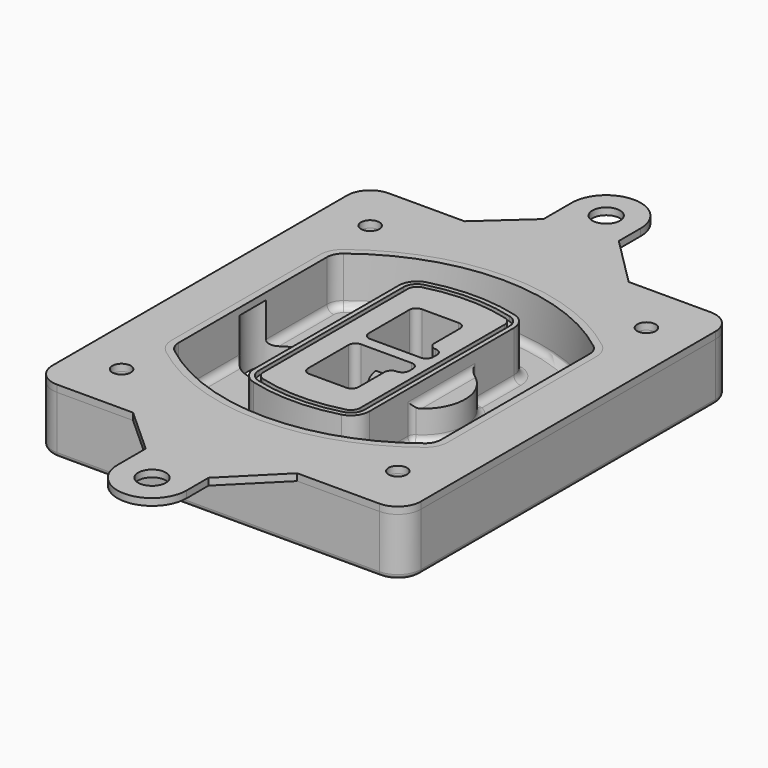
from build123d import *

# Parameters (mm, degrees)
F0_R      = 4
F1_DEPTH  = 25
F2_DEPTH  = 3
F3_DEPTH  = 18
F5_DEPTH  = 21
F6_DEPTH  = 2
F8_DEPTH  = 20
F9_DEPTH  = 16
F10_DEPTH = 25
F7_R      = 6
F7_R_2    = 4
F11_DEPTH = 6
F13_DEPTH = 9
F14_R     = 3
F15_R     = 2
F16_R     = 6
F16_R_2   = 4
F17_DEPTH = 3


with BuildPart() as f1:
    # F0 (on Top) → F1 (new body)
    with BuildSketch(Plane.XY):
        with BuildLine():
            ThreePointArc((-80, -80), (-77.0710678119, -87.0710678119), (-70, -90))
            Line((-70, -90), (70, -90))
            ThreePointArc((70, -90), (77.0710678119, -87.0710678119), (80, -80))
            Line((80, -80), (80, 80))
            ThreePointArc((80, 80), (77.0710678119, 87.0710678119), (70, 90))
            Line((70, 90), (-70, 90))
            ThreePointArc((-70, 90), (-77.0710678119, 87.0710678119), (-80, 80))
            Line((-80, 80), (-80, -80))
        make_face()
        with Locations((-60, -67.5)):
            Circle(F0_R, mode=Mode.SUBTRACT)
        with Locations((60, -67.5)):
            Circle(F0_R, mode=Mode.SUBTRACT)
        with Locations((-60, 67.5)):
            Circle(F0_R, mode=Mode.SUBTRACT)
        with BuildLine():
            ThreePointArc((-64, 40.2934422872), (-62.5820384798, 46.4328484224), (-58.6153846154, 51.3286200352))
            ThreePointArc((-58.6153846154, 51.3286200352), (0, 71.5), (58.6153846154, 51.3286200352))
            ThreePointArc((58.6153846154, 51.3286200352), (62.5820384798, 46.4328484224), (64, 40.2934422872))
            Line((64, 40.2934422872), (64, -40.2934422872))
            ThreePointArc((64, -40.2934422872), (62.5820384798, -46.4328484224), (58.6153846154, -51.3286200352))
            ThreePointArc((58.6153846154, -51.3286200352), (0, -71.5), (-58.6153846154, -51.3286200352))
            ThreePointArc((-58.6153846154, -51.3286200352), (-62.5820384798, -46.4328484224), (-64, -40.2934422872))
            Line((-64, -40.2934422872), (-64, 40.2934422872))
        make_face(mode=Mode.SUBTRACT)
        with Locations((60, 67.5)):
            Circle(F0_R, mode=Mode.SUBTRACT)
        with BuildLine():
            ThreePointArc((58.6153846154, 51.3286200352), (0, 71.5), (-58.6153846154, 51.3286200352))
            ThreePointArc((-58.6153846154, 51.3286200352), (-62.5820384798, 46.4328484224), (-64, 40.2934422872))
            Line((-64, 40.2934422872), (-64, -40.2934422872))
            ThreePointArc((-64, -40.2934422872), (-62.5820384798, -46.4328484224), (-58.6153846154, -51.3286200352))
            ThreePointArc((-58.6153846154, -51.3286200352), (0, -71.5), (58.6153846154, -51.3286200352))
            ThreePointArc((58.6153846154, -51.3286200352), (62.5820384798, -46.4328484224), (64, -40.2934422872))
            Line((64, -40.2934422872), (64, 40.2934422872))
            ThreePointArc((64, 40.2934422872), (62.5820384798, 46.4328484224), (58.6153846154, 51.3286200352))
        make_face()
        with BuildLine():
            Line((-60, -40.2934422872), (-60, 40.2934422872))
            ThreePointArc((-60, 40.2934422872), (-58.9871703427, 44.6787323838), (-56.1538461538, 48.1757121072))
            ThreePointArc((-56.1538461538, 48.1757121072), (0, 67.5), (56.1538461538, 48.1757121072))
            ThreePointArc((56.1538461538, 48.1757121072), (58.9871703427, 44.6787323838), (60, 40.2934422872))
            Line((60, 40.2934422872), (60, -40.2934422872))
            ThreePointArc((60, -40.2934422872), (58.9871703427, -44.6787323838), (56.1538461538, -48.1757121072))
            ThreePointArc((56.1538461538, -48.1757121072), (0, -67.5), (-56.1538461538, -48.1757121072))
            ThreePointArc((-56.1538461538, -48.1757121072), (-58.9871703427, -44.6787323838), (-60, -40.2934422872))
        make_face(mode=Mode.SUBTRACT)
        with BuildLine():
            ThreePointArc((-56.1538461538, 48.1757121072), (-58.9871703427, 44.6787323838), (-60, 40.2934422872))
            Line((-60, 40.2934422872), (-60, -40.2934422872))
            ThreePointArc((-60, -40.2934422872), (-58.9871703427, -44.6787323838), (-56.1538461538, -48.1757121072))
            ThreePointArc((-56.1538461538, -48.1757121072), (0, -67.5), (56.1538461538, -48.1757121072))
            ThreePointArc((56.1538461538, -48.1757121072), (58.9871703427, -44.6787323838), (60, -40.2934422872))
            Line((60, -40.2934422872), (60, 40.2934422872))
            ThreePointArc((60, 40.2934422872), (58.9871703427, 44.6787323838), (56.1538461538, 48.1757121072))
            ThreePointArc((56.1538461538, 48.1757121072), (0, 67.5), (-56.1538461538, 48.1757121072))
        make_face()
        with BuildLine():
            ThreePointArc((54.3076923077, 45.8110311612), (56.2910192399, 43.3631453548), (57, 40.2934422872))
            Line((57, 40.2934422872), (57, -40.2934422872))
            ThreePointArc((57, -40.2934422872), (56.2910192399, -43.3631453548), (54.3076923077, -45.8110311612))
            ThreePointArc((54.3076923077, -45.8110311612), (0, -64.5), (-54.3076923077, -45.8110311612))
            ThreePointArc((-54.3076923077, -45.8110311612), (-56.2910192399, -43.3631453548), (-57, -40.2934422872))
            Line((-57, -40.2934422872), (-57, 40.2934422872))
            ThreePointArc((-57, 40.2934422872), (-56.2910192399, 43.3631453548), (-54.3076923077, 45.8110311612))
            ThreePointArc((-54.3076923077, 45.8110311612), (0, 64.5), (54.3076923077, 45.8110311612))
        make_face(mode=Mode.SUBTRACT)
        with BuildLine():
            Line((57, -40.2934422872), (57, 40.2934422872))
            ThreePointArc((57, 40.2934422872), (56.2910192399, 43.3631453548), (54.3076923077, 45.8110311612))
            ThreePointArc((54.3076923077, 45.8110311612), (0, 64.5), (-54.3076923077, 45.8110311612))
            ThreePointArc((-54.3076923077, 45.8110311612), (-56.2910192399, 43.3631453548), (-57, 40.2934422872))
            Line((-57, 40.2934422872), (-57, -40.2934422872))
            ThreePointArc((-57, -40.2934422872), (-56.2910192399, -43.3631453548), (-54.3076923077, -45.8110311612))
            ThreePointArc((-54.3076923077, -45.8110311612), (0, -64.5), (54.3076923077, -45.8110311612))
            ThreePointArc((54.3076923077, -45.8110311612), (56.2910192399, -43.3631453548), (57, -40.2934422872))
        make_face()
    extrude(amount=-F1_DEPTH)

    # F0 (on Top) → F2 (join)
    with BuildSketch(Plane.XY):
        with BuildLine():
            ThreePointArc((-56.1538461538, 48.1757121072), (-58.9871703427, 44.6787323838), (-60, 40.2934422872))
            Line((-60, 40.2934422872), (-60, -40.2934422872))
            ThreePointArc((-60, -40.2934422872), (-58.9871703427, -44.6787323838), (-56.1538461538, -48.1757121072))
            ThreePointArc((-56.1538461538, -48.1757121072), (0, -67.5), (56.1538461538, -48.1757121072))
            ThreePointArc((56.1538461538, -48.1757121072), (58.9871703427, -44.6787323838), (60, -40.2934422872))
            Line((60, -40.2934422872), (60, 40.2934422872))
            ThreePointArc((60, 40.2934422872), (58.9871703427, 44.6787323838), (56.1538461538, 48.1757121072))
            ThreePointArc((56.1538461538, 48.1757121072), (0, 67.5), (-56.1538461538, 48.1757121072))
        make_face()
        with BuildLine():
            ThreePointArc((54.3076923077, 45.8110311612), (56.2910192399, 43.3631453548), (57, 40.2934422872))
            Line((57, 40.2934422872), (57, -40.2934422872))
            ThreePointArc((57, -40.2934422872), (56.2910192399, -43.3631453548), (54.3076923077, -45.8110311612))
            ThreePointArc((54.3076923077, -45.8110311612), (0, -64.5), (-54.3076923077, -45.8110311612))
            ThreePointArc((-54.3076923077, -45.8110311612), (-56.2910192399, -43.3631453548), (-57, -40.2934422872))
            Line((-57, -40.2934422872), (-57, 40.2934422872))
            ThreePointArc((-57, 40.2934422872), (-56.2910192399, 43.3631453548), (-54.3076923077, 45.8110311612))
            ThreePointArc((-54.3076923077, 45.8110311612), (0, 64.5), (54.3076923077, 45.8110311612))
        make_face(mode=Mode.SUBTRACT)
    extrude(amount=F2_DEPTH)

    # F0 (on Top) → F3 (cut)
    with BuildSketch(Plane.XY):
        with BuildLine():
            Line((57, -40.2934422872), (57, 40.2934422872))
            ThreePointArc((57, 40.2934422872), (56.2910192399, 43.3631453548), (54.3076923077, 45.8110311612))
            ThreePointArc((54.3076923077, 45.8110311612), (0, 64.5), (-54.3076923077, 45.8110311612))
            ThreePointArc((-54.3076923077, 45.8110311612), (-56.2910192399, 43.3631453548), (-57, 40.2934422872))
            Line((-57, 40.2934422872), (-57, -40.2934422872))
            ThreePointArc((-57, -40.2934422872), (-56.2910192399, -43.3631453548), (-54.3076923077, -45.8110311612))
            ThreePointArc((-54.3076923077, -45.8110311612), (0, -64.5), (54.3076923077, -45.8110311612))
            ThreePointArc((54.3076923077, -45.8110311612), (56.2910192399, -43.3631453548), (57, -40.2934422872))
        make_face()
    extrude(amount=-F3_DEPTH, mode=Mode.SUBTRACT)

    # F4 (on face) → F5 (join, through all)
    with BuildSketch(Plane.XY.offset(3)):
        with BuildLine():
            ThreePointArc((-25, -39.2465276821), (-23.3511545998, -44.1109737193), (-19.0842911877, -46.9702398883))
            ThreePointArc((-19.0842911877, -46.9702398883), (0, -49.5), (19.0842911877, -46.9702398883))
            ThreePointArc((19.0842911877, -46.9702398883), (23.3511545998, -44.1109737193), (25, -39.2465276821))
            Line((25, -39.2465276821), (25, 39.2465276821))
            ThreePointArc((25, 39.2465276821), (23.3511545998, 44.1109737193), (19.0842911877, 46.9702398883))
            ThreePointArc((19.0842911877, 46.9702398883), (0, 49.5), (-19.0842911877, 46.9702398883))
            ThreePointArc((-19.0842911877, 46.9702398883), (-23.3511545998, 44.1109737193), (-25, 39.2465276821))
            Line((-25, 39.2465276821), (-25, -39.2465276821))
        make_face()
        with BuildLine():
            ThreePointArc((18.5632183908, 45.0393118368), (21.7633659499, 42.89486221), (23, 39.2465276821))
            Line((23, 39.2465276821), (23, -39.2465276821))
            ThreePointArc((23, -39.2465276821), (21.7633659499, -42.89486221), (18.5632183908, -45.0393118368))
            ThreePointArc((18.5632183908, -45.0393118368), (0, -47.5), (-18.5632183908, -45.0393118368))
            ThreePointArc((-18.5632183908, -45.0393118368), (-21.7633659499, -42.89486221), (-23, -39.2465276821))
            Line((-23, -39.2465276821), (-23, 39.2465276821))
            ThreePointArc((-23, 39.2465276821), (-21.7633659499, 42.89486221), (-18.5632183908, 45.0393118368))
            ThreePointArc((-18.5632183908, 45.0393118368), (0, 47.5), (18.5632183908, 45.0393118368))
        make_face(mode=Mode.SUBTRACT)
        with BuildLine():
            Line((23, -39.2465276821), (23, 39.2465276821))
            ThreePointArc((23, 39.2465276821), (21.7633659499, 42.89486221), (18.5632183908, 45.0393118368))
            ThreePointArc((18.5632183908, 45.0393118368), (0, 47.5), (-18.5632183908, 45.0393118368))
            ThreePointArc((-18.5632183908, 45.0393118368), (-21.7633659499, 42.89486221), (-23, 39.2465276821))
            Line((-23, 39.2465276821), (-23, -39.2465276821))
            ThreePointArc((-23, -39.2465276821), (-21.7633659499, -42.89486221), (-18.5632183908, -45.0393118368))
            ThreePointArc((-18.5632183908, -45.0393118368), (0, -47.5), (18.5632183908, -45.0393118368))
            ThreePointArc((18.5632183908, -45.0393118368), (21.7633659499, -42.89486221), (23, -39.2465276821))
        make_face()
        with BuildLine():
            ThreePointArc((18.0421455939, 43.1083837852), (20.1755772999, 41.6787507007), (21, 39.2465276821))
            Line((21, 39.2465276821), (21, -39.2465276821))
            ThreePointArc((21, -39.2465276821), (20.1755772999, -41.6787507007), (18.0421455939, -43.1083837852))
            ThreePointArc((18.0421455939, -43.1083837852), (0, -45.5), (-18.0421455939, -43.1083837852))
            ThreePointArc((-18.0421455939, -43.1083837852), (-20.1755772999, -41.6787507007), (-21, -39.2465276821))
            Line((-21, -39.2465276821), (-21, 39.2465276821))
            ThreePointArc((-21, 39.2465276821), (-20.1755772999, 41.6787507007), (-18.0421455939, 43.1083837852))
            ThreePointArc((-18.0421455939, 43.1083837852), (0, 45.5), (18.0421455939, 43.1083837852))
        make_face(mode=Mode.SUBTRACT)
        with BuildLine():
            Line((21, -39.2465276821), (21, 39.2465276821))
            ThreePointArc((21, 39.2465276821), (20.1755772999, 41.6787507007), (18.0421455939, 43.1083837852))
            ThreePointArc((18.0421455939, 43.1083837852), (0, 45.5), (-18.0421455939, 43.1083837852))
            ThreePointArc((-18.0421455939, 43.1083837852), (-20.1755772999, 41.6787507007), (-21, 39.2465276821))
            Line((-21, 39.2465276821), (-21, -39.2465276821))
            ThreePointArc((-21, -39.2465276821), (-20.1755772999, -41.6787507007), (-18.0421455939, -43.1083837852))
            ThreePointArc((-18.0421455939, -43.1083837852), (0, -45.5), (18.0421455939, -43.1083837852))
            ThreePointArc((18.0421455939, -43.1083837852), (20.1755772999, -41.6787507007), (21, -39.2465276821))
        make_face()
        with BuildLine():
            Line((-8, -2.5), (14, -2.5))
            ThreePointArc((14, -2.5), (16.1213203436, -3.3786796564), (17, -5.5))
            Line((17, -5.5), (17, -7.5))
            ThreePointArc((17, -7.5), (16.1213203436, -9.6213203436), (14, -10.5))
            ThreePointArc((14, -10.5), (11.8786796564, -11.3786796564), (11, -13.5))
            Line((11, -13.5), (11, -27.5))
            ThreePointArc((11, -27.5), (10.1213203436, -29.6213203436), (8, -30.5))
            Line((8, -30.5), (-8, -30.5))
            ThreePointArc((-8, -30.5), (-10.1213203436, -29.6213203436), (-11, -27.5))
            Line((-11, -27.5), (-11, -5.5))
            ThreePointArc((-11, -5.5), (-10.1213203436, -3.3786796564), (-8, -2.5))
        make_face(mode=Mode.SUBTRACT)
        with BuildLine():
            ThreePointArc((-8, 2.5), (-10.1213203436, 3.3786796564), (-11, 5.5))
            Line((-11, 5.5), (-11, 27.5))
            ThreePointArc((-11, 27.5), (-10.1213203436, 29.6213203436), (-8, 30.5))
            Line((-8, 30.5), (8, 30.5))
            ThreePointArc((8, 30.5), (10.1213203436, 29.6213203436), (11, 27.5))
            Line((11, 27.5), (11, 13.5))
            ThreePointArc((11, 13.5), (11.8786796564, 11.3786796564), (14, 10.5))
            ThreePointArc((14, 10.5), (16.1213203436, 9.6213203436), (17, 7.5))
            Line((17, 7.5), (17, 5.5))
            ThreePointArc((17, 5.5), (16.1213203436, 3.3786796564), (14, 2.5))
            Line((14, 2.5), (-8, 2.5))
        make_face(mode=Mode.SUBTRACT)
    extrude(amount=-F5_DEPTH)

    # F4 (on face) → F6 (cut)
    with BuildSketch(Plane.XY.offset(3)):
        with BuildLine():
            Line((23, -39.2465276821), (23, 39.2465276821))
            ThreePointArc((23, 39.2465276821), (21.7633659499, 42.89486221), (18.5632183908, 45.0393118368))
            ThreePointArc((18.5632183908, 45.0393118368), (0, 47.5), (-18.5632183908, 45.0393118368))
            ThreePointArc((-18.5632183908, 45.0393118368), (-21.7633659499, 42.89486221), (-23, 39.2465276821))
            Line((-23, 39.2465276821), (-23, -39.2465276821))
            ThreePointArc((-23, -39.2465276821), (-21.7633659499, -42.89486221), (-18.5632183908, -45.0393118368))
            ThreePointArc((-18.5632183908, -45.0393118368), (0, -47.5), (18.5632183908, -45.0393118368))
            ThreePointArc((18.5632183908, -45.0393118368), (21.7633659499, -42.89486221), (23, -39.2465276821))
        make_face()
        with BuildLine():
            ThreePointArc((18.0421455939, 43.1083837852), (20.1755772999, 41.6787507007), (21, 39.2465276821))
            Line((21, 39.2465276821), (21, -39.2465276821))
            ThreePointArc((21, -39.2465276821), (20.1755772999, -41.6787507007), (18.0421455939, -43.1083837852))
            ThreePointArc((18.0421455939, -43.1083837852), (0, -45.5), (-18.0421455939, -43.1083837852))
            ThreePointArc((-18.0421455939, -43.1083837852), (-20.1755772999, -41.6787507007), (-21, -39.2465276821))
            Line((-21, -39.2465276821), (-21, 39.2465276821))
            ThreePointArc((-21, 39.2465276821), (-20.1755772999, 41.6787507007), (-18.0421455939, 43.1083837852))
            ThreePointArc((-18.0421455939, 43.1083837852), (0, 45.5), (18.0421455939, 43.1083837852))
        make_face(mode=Mode.SUBTRACT)
    extrude(amount=-F6_DEPTH, mode=Mode.SUBTRACT)

    # F7 (on face) → F8 (join)
    with BuildSketch(Plane(origin=(0, 0, -25), x_dir=(1, 0, 0), z_dir=(0, 0, -1))):
        with BuildLine():
            ThreePointArc((3.28842436, 0), (16.7567035675, 13.4682792075), (30.224982775, 0))
            Line((30.224982775, 0), (35.224982775, 0))
            ThreePointArc((35.224982775, 0), (16.7567035675, 18.4682792075), (-1.71157564, 0))
            Line((-1.71157564, 0), (3.28842436, 0))
        make_face()
        with BuildLine():
            Line((3.28842436, 0), (30.224982775, 0))
            ThreePointArc((30.224982775, 0), (16.7567035675, 13.4682792075), (3.28842436, 0))
        make_face()
        with BuildLine():
            ThreePointArc((3.28842436, 0), (16.7567035675, -13.4682792075), (30.224982775, 0))
            Line((30.224982775, 0), (3.28842436, 0))
        make_face()
        with BuildLine():
            Line((35.224982775, 0), (30.224982775, 0))
            ThreePointArc((30.224982775, 0), (16.7567035675, -13.4682792075), (3.28842436, 0))
            Line((3.28842436, 0), (-1.71157564, 0))
            ThreePointArc((-1.71157564, 0), (16.7567035675, -18.4682792075), (35.224982775, 0))
        make_face()
    extrude(amount=-F8_DEPTH)

    # F7 (on face) → F9 (cut)
    with BuildSketch(Plane(origin=(0, 0, -25), x_dir=(1, 0, 0), z_dir=(0, 0, -1))):
        with BuildLine():
            Line((3.28842436, 0), (30.224982775, 0))
            ThreePointArc((30.224982775, 0), (16.7567035675, 13.4682792075), (3.28842436, 0))
        make_face()
        with BuildLine():
            ThreePointArc((3.28842436, 0), (16.7567035675, -13.4682792075), (30.224982775, 0))
            Line((30.224982775, 0), (3.28842436, 0))
        make_face()
    extrude(amount=-F9_DEPTH, mode=Mode.SUBTRACT)

    # F7 (on face) → F10 (cut)
    with BuildSketch(Plane(origin=(0, 0, -25), x_dir=(1, 0, 0), z_dir=(0, 0, -1))):
        with BuildLine():
            Line((-59.0318229325, 0), (-32.0952645175, 0))
            ThreePointArc((-32.0952645175, 0), (-45.563543725, 13.4682792075), (-59.0318229325, 0))
        make_face()
        with BuildLine():
            ThreePointArc((-59.0318229325, 0), (-45.563543725, -13.4682792075), (-32.0952645175, 0))
            Line((-32.0952645175, 0), (-59.0318229325, 0))
        make_face()
    extrude(amount=-F10_DEPTH, mode=Mode.SUBTRACT)

    # F7 (on face) → F11 (cut)
    with BuildSketch(Plane(origin=(0, 0, -25), x_dir=(1, 0, 0), z_dir=(0, 0, -1))):
        with Locations((60, -67.5)):
            Circle(F7_R)
        with Locations((60, -67.5)):
            Circle(F7_R_2, mode=Mode.SUBTRACT)
        with Locations((60, -67.5)):
            Circle(F7_R)
        with Locations((60, -67.5)):
            Circle(F7_R_2, mode=Mode.SUBTRACT)
        with Locations((-60, -67.5)):
            Circle(F7_R)
        with Locations((-60, -67.5)):
            Circle(F7_R_2, mode=Mode.SUBTRACT)
        with Locations((-60, -67.5)):
            Circle(F7_R)
        with Locations((-60, -67.5)):
            Circle(F7_R_2, mode=Mode.SUBTRACT)
        with Locations((-60, 67.5)):
            Circle(F7_R)
        with Locations((-60, 67.5)):
            Circle(F7_R_2, mode=Mode.SUBTRACT)
        with Locations((-60, 67.5)):
            Circle(F7_R)
        with Locations((-60, 67.5)):
            Circle(F7_R_2, mode=Mode.SUBTRACT)
        with Locations((60, 67.5)):
            Circle(F7_R)
        with Locations((60, 67.5)):
            Circle(F7_R_2, mode=Mode.SUBTRACT)
        with Locations((60, 67.5)):
            Circle(F7_R)
        with Locations((60, 67.5)):
            Circle(F7_R_2, mode=Mode.SUBTRACT)
    extrude(amount=-F11_DEPTH, mode=Mode.SUBTRACT)

    # F12 (on face) → F13 (cut, through all)
    with BuildSketch(Plane(origin=(0, 0, -9), x_dir=(1, 0, 0), z_dir=(0, 0, -1))):
        with BuildLine():
            Line((11, 13.5), (11, 17.5481537753))
            ThreePointArc((11, 17.5481537753), (2.5696536419, 11.8239143813), (-1.5415842455, 2.5))
            Line((-1.5415842455, 2.5), (3.5224848595, 2.5))
            ThreePointArc((3.5224848595, 2.5), (6.1857188154, 8.3455872281), (11.2536447004, 12.2927168648))
            ThreePointArc((11.2536447004, 12.2927168648), (11.0640958889, 12.8831798879), (11, 13.5))
        make_face()
        with BuildLine():
            ThreePointArc((11.2536447004, -12.2927168648), (6.1857188154, -8.3455872281), (3.5224848595, -2.5))
            Line((3.5224848595, -2.5), (-1.5415842455, -2.5))
            ThreePointArc((-1.5415842455, -2.5), (2.5696536419, -11.8239143813), (11, -17.5481537753))
            Line((11, -17.5481537753), (11, -13.5))
            ThreePointArc((11, -13.5), (11.0640958889, -12.8831798879), (11.2536447004, -12.2927168648))
        make_face()
        with BuildLine():
            ThreePointArc((11.2536447004, 12.2927168648), (6.1857188154, 8.3455872281), (3.5224848595, 2.5))
            Line((3.5224848595, 2.5), (14, 2.5))
            ThreePointArc((14, 2.5), (16.1213203436, 3.3786796564), (17, 5.5))
            Line((17, 5.5), (17, 7.5))
            ThreePointArc((17, 7.5), (16.1213203436, 9.6213203436), (14, 10.5))
            ThreePointArc((14, 10.5), (12.3601599782, 10.9878446101), (11.2536447004, 12.2927168648))
        make_face()
        with BuildLine():
            Line((14, -2.5), (3.5224848595, -2.5))
            ThreePointArc((3.5224848595, -2.5), (6.1857188154, -8.3455872281), (11.2536447004, -12.2927168648))
            ThreePointArc((11.2536447004, -12.2927168648), (12.3601599782, -10.9878446101), (14, -10.5))
            ThreePointArc((14, -10.5), (16.1213203436, -9.6213203436), (17, -7.5))
            Line((17, -7.5), (17, -5.5))
            ThreePointArc((17, -5.5), (16.1213203436, -3.3786796564), (14, -2.5))
        make_face()
    extrude(amount=F13_DEPTH, mode=Mode.SUBTRACT)

    # F14
    f14_edges = [f1.edges().sort_by_distance(p)[0] for p in [
        (-57, -23.703476, -18),
        (-57, 23.703476, -18),
        (25, 0, -5),
        (25, 16.526506, -11.5),
        (25, -16.526506, -11.5),
        (25, -27.886517, -18),
        (35.224983, 0, -18),
    ]]
    fillet(f14_edges, radius=F14_R)

    # F15
    f15_edges = [f1.edges().sort_by_distance(p)[0] for p in [
        (0, -90, -25),
    ]]
    fillet(f15_edges, radius=F15_R)


with BuildPart() as f17:
    # F16 (on face) → F17 (new body, through all)
    with BuildSketch(Plane.XY):
        with BuildLine():
            Line((-17.1146299556, 108), (-37.0045752034, 90))
            Line((-37.0045752034, 90), (34.2756049475, 90))
            Line((34.2756049475, 90), (12.8853700444, 111.3902349031))
            Line((12.8853700444, 111.3902349031), (12.8853700444, 123.3015153563))
            ThreePointArc((12.8853700444, 123.3015153563), (-2.1146299556, 138.3015153563), (-17.1146299556, 123.3015153563))
            Line((-17.1146299556, 123.3015153563), (-17.1146299556, 108))
        make_face()
        with Locations((-2.1146299556, 123.3015153563)):
            Circle(F16_R, mode=Mode.SUBTRACT)
        with BuildLine():
            Line((34.2756049475, -90), (-37.0045752034, -90))
            Line((-37.0045752034, -90), (-17.1146299556, -108))
            Line((-17.1146299556, -108), (-17.1146299556, -123.3015153563))
            ThreePointArc((-17.1146299556, -123.3015153563), (-2.1146299556, -138.3015153563), (12.8853700444, -123.3015153563))
            Line((12.8853700444, -123.3015153563), (12.8853700444, -111.3902349031))
            Line((12.8853700444, -111.3902349031), (34.2756049475, -90))
        make_face()
        with Locations((-2.1146299556, -123.3015153563)):
            Circle(F16_R, mode=Mode.SUBTRACT)
        with BuildLine():
            Line((-60, 0), (-80, 0))
            Line((-80, 0), (-80, -80))
            ThreePointArc((-80, -80), (-77.0710678119, -87.0710678119), (-70, -90))
            Line((-70, -90), (-37.0045752034, -90))
            Line((-37.0045752034, -90), (34.2756049475, -90))
            Line((34.2756049475, -90), (70, -90))
            ThreePointArc((70, -90), (77.0710678119, -87.0710678119), (80, -80))
            Line((80, -80), (80, 0))
            Line((80, 0), (60, 0))
            Line((60, 0), (60, -40.2934422872))
            ThreePointArc((60, -40.2934422872), (58.9871703427, -44.6787323838), (56.1538461538, -48.1757121072))
            ThreePointArc((56.1538461538, -48.1757121072), (0, -67.5), (-56.1538461538, -48.1757121072))
            ThreePointArc((-56.1538461538, -48.1757121072), (-58.9871703427, -44.6787323838), (-60, -40.2934422872))
            Line((-60, -40.2934422872), (-60, 0))
        make_face()
        with Locations((-60, -67.5)):
            Circle(F16_R_2, mode=Mode.SUBTRACT)
        with Locations((60, -67.5)):
            Circle(F16_R_2, mode=Mode.SUBTRACT)
        with BuildLine():
            Line((34.2756049475, 90), (-37.0045752034, 90))
            Line((-37.0045752034, 90), (-70, 90))
            ThreePointArc((-70, 90), (-77.0710678119, 87.0710678119), (-80, 80))
            Line((-80, 80), (-80, 0))
            Line((-80, 0), (-60, 0))
            Line((-60, 0), (-60, 40.2934422872))
            ThreePointArc((-60, 40.2934422872), (-58.9871703427, 44.6787323838), (-56.1538461538, 48.1757121072))
            ThreePointArc((-56.1538461538, 48.1757121072), (0, 67.5), (56.1538461538, 48.1757121072))
            ThreePointArc((56.1538461538, 48.1757121072), (58.9871703427, 44.6787323838), (60, 40.2934422872))
            Line((60, 40.2934422872), (60, 0))
            Line((60, 0), (80, 0))
            Line((80, 0), (80, 80))
            ThreePointArc((80, 80), (77.0710678119, 87.0710678119), (70, 90))
            Line((70, 90), (34.2756049475, 90))
        make_face()
        with Locations((-60, 67.5)):
            Circle(F16_R_2, mode=Mode.SUBTRACT)
        with Locations((60, 67.5)):
            Circle(F16_R_2, mode=Mode.SUBTRACT)
    extrude(amount=F17_DEPTH)


solid = Compound([f1.part, f17.part])
